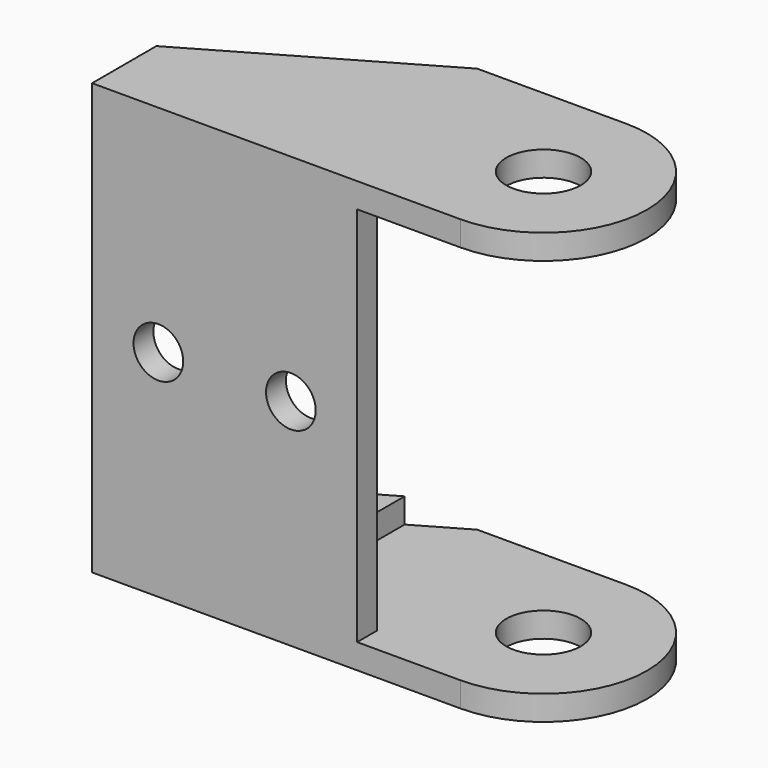
from build123d import *

# Parameters (mm, degrees)
SKETCH_R        = 2.25
PAD_DEPTH       = 26
SKETCH001_R     = 1.5
POCKET_DEPTH    = 12.501
POCKET001_DEPTH = 11
SKETCH003_W     = 20
SKETCH003_H     = 23
POCKET002_DEPTH = 5


with BuildPart() as part:
    # Sketch → Pad (new body)
    with BuildSketch(Plane.XY):
        with BuildLine():
            ThreePointArc((2.6e-05, -6.25), (6.25, 1.3e-05), (0, 6.25))
            Line((0, 6.25), (-8.999786, 6.25))
            Line((-22.249974, -1.4), (-8.999786, 6.25))
            Line((-22.249974, -6.25), (-22.249974, -1.4))
            Line((2.6e-05, -6.25), (-22.249974, -6.25))
        make_face()
        Circle(SKETCH_R, mode=Mode.SUBTRACT)
    extrude(amount=PAD_DEPTH)

    # Sketch001 → Pocket (cut, through all)
    with BuildSketch(Plane.XZ.offset(6.25)):
        with Locations((-18.249974, 13)):
            Circle(SKETCH001_R)
        with Locations((-10.249974, 13)):
            Circle(SKETCH001_R)
    extrude(amount=-POCKET_DEPTH, mode=Mode.SUBTRACT)

    # Sketch002 → Pocket001 (cut)
    with BuildSketch(Plane(origin=(0, 6.25, 0), x_dir=(-1, 0, 0), z_dir=(0, 1, 0))):
        Polygon((11.999974, 23), (22.249974, 23), (22.249974, 3), (11.999974, 3), (11.999974, 1.5), (-13.000026, 1.5), (-13.000026, 24.5), (11.999974, 24.5), align=None)
    extrude(amount=-POCKET001_DEPTH, mode=Mode.SUBTRACT)

    # Sketch003 → Pocket002 (cut)
    with BuildSketch(Plane(origin=(0, -4.75, 0), x_dir=(-1, 0, 0), z_dir=(0, 1, 0))):
        with Locations((-3.750026, 13)):
            Rectangle(SKETCH003_W, SKETCH003_H)
    extrude(amount=-POCKET002_DEPTH, mode=Mode.SUBTRACT)


solid = part.part
